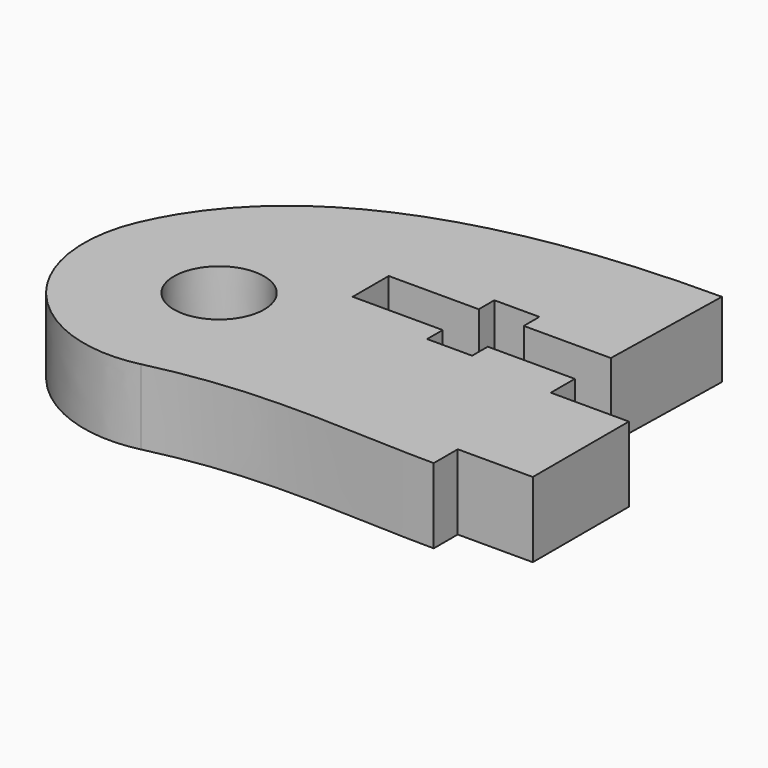
from build123d import *

# Parameters (mm, degrees)
EXTRUSION001_DEPTH = 7
EXTRUSION_DEPTH    = 5


with BuildPart() as extrusion001:
    # Face001 → Extrusion001 (new body)
    with BuildSketch(Plane(origin=(24.300425, -112.00001, 0), x_dir=(0, 1, 0), z_dir=(0, 0, 1))):
        with BuildLine():
            add(Edge.make_bspline(
                [(0, -3), (-1.65685, -3), (-3, -1.656854), (-3, 0)],
                knots=[0, 0, 0, 0, 1, 1, 1, 1], degree=3))
            add(Edge.make_bspline(
                [(3, 0), (3, -1.656854), (1.65685, -3), (0, -3)],
                knots=[0, 0, 0, 0, 1, 1, 1, 1], degree=3))
            add(Edge.make_bspline(
                [(0, 3), (1.65685, 3), (3, 1.656854), (3, 0)],
                knots=[0, 0, 0, 0, 1, 1, 1, 1], degree=3))
            add(Edge.make_bspline(
                [(-3, 0), (-3, 1.656854), (-1.65685, 3), (0, 3)],
                knots=[0, 0, 0, 0, 1, 1, 1, 1], degree=3))
        make_face()
    extrude(amount=EXTRUSION001_DEPTH)


with BuildPart() as extrusion001_1:
    # Extrusion001 placement: moved
    add(extrusion001.part.moved(Location((0, 0, -1))))


with BuildPart() as cut:
    # Face → Extrusion (new body)
    with BuildSketch(Plane(origin=(32.152689, -109.758179, 0), x_dir=(0, -1, 0), z_dir=(0, 0, -1))):
        with BuildLine():
            add(Edge.make_bspline(
                [(7.921471, 14.83379), (10.535191, 12.707465), (11.833861, 9.278731), (11.049561, 6.001894)],
                knots=[0, 0, 0, 0, 1, 1, 1, 1], degree=3))
            add(Edge.make_bspline(
                [(-1.362189, 16.099145), (1.723661, 17.452044), (5.307751, 16.960116), (7.921471, 14.83379)],
                knots=[0, 0, 0, 0, 1, 1, 1, 1], degree=3))
            add(Edge.make_bspline(
                [(-13.758172, -12.847297), (-13.758172, 4.152704), (-8.759767, 12.855899), (-1.362189, 16.099145)],
                knots=[0, 0, 0, 0, 1, 1, 1, 1], degree=3))
            add(Edge.make_bspline(
                [(-4.758169, -12.647297), (-13.758172, -12.847297)],
                knots=[0, 0, 9.002225, 9.002225], degree=1))
            add(Edge.make_bspline(
                [(-4.758169, -6.847297), (-4.758169, -12.647297)],
                knots=[0, 0, 5.8, 5.8], degree=1))
            add(Edge.make_bspline(
                [(-6.058169, -6.847297), (-4.758169, -6.847297)],
                knots=[0, 0, 1.3, 1.3], degree=1))
            add(Edge.make_bspline(
                [(-6.058169, -3.847297), (-6.058169, -6.847297)],
                knots=[0, 0, 3, 3], degree=1))
            add(Edge.make_bspline(
                [(-4.758169, -3.847297), (-6.058169, -3.847297)],
                knots=[0, 0, 1.3, 1.3], degree=1))
            add(Edge.make_bspline(
                [(-4.758169, 2.152704), (-4.758169, -3.847297)],
                knots=[0, 0, 6.000001, 6.000001], degree=1))
            add(Edge.make_bspline(
                [(-1.758169, 2.152704), (-4.758169, 2.152704)],
                knots=[0, 0, 3, 3], degree=1))
            add(Edge.make_bspline(
                [(-1.758169, -3.847297), (-1.758169, 2.152704)],
                knots=[0, 0, 6.000001, 6.000001], degree=1))
            add(Edge.make_bspline(
                [(-0.458169, -3.847297), (-1.758169, -3.847297)],
                knots=[0, 0, 1.3, 1.3], degree=1))
            add(Edge.make_bspline(
                [(-0.458169, -6.847297), (-0.458169, -3.847297)],
                knots=[0, 0, 3, 3], degree=1))
            add(Edge.make_bspline(
                [(-1.758169, -6.847297), (-0.458169, -6.847297)],
                knots=[0, 0, 1.3, 1.3], degree=1))
            add(Edge.make_bspline(
                [(-1.758169, -12.647297), (-1.758169, -6.847297)],
                knots=[0, 0, 5.8, 5.8], degree=1))
            add(Edge.make_bspline(
                [(0.241831, -12.647297), (-1.758169, -12.647297)],
                knots=[0, 0, 2, 2], degree=1))
            add(Edge.make_bspline(
                [(0.241831, -17.847296), (0.241831, -12.647297)],
                knots=[0, 0, 5.199999, 5.199999], degree=1))
            add(Edge.make_bspline(
                [(8.241831, -17.847296), (0.241831, -17.847296)],
                knots=[0, 0, 8, 8], degree=1))
            add(Edge.make_bspline(
                [(8.241831, -12.847297), (8.241831, -17.847296)],
                knots=[0, 0, 4.999999, 4.999999], degree=1))
            add(Edge.make_bspline(
                [(10.241831, -12.847297), (8.241831, -12.847297)],
                knots=[0, 0, 2, 2], degree=1))
            add(Edge.make_bspline(
                [(11.049561, 6.001894), (9.332951, -1.170161), (10.241831, -6.847297), (10.241831, -12.847297)],
                knots=[0, 0, 0, 0, 1, 1, 1, 1], degree=3))
        make_face()
    extrude(amount=-EXTRUSION_DEPTH)

    # Cut: cut Extrusion001
    add(extrusion001_1.part, mode=Mode.SUBTRACT)


solid = cut.part
